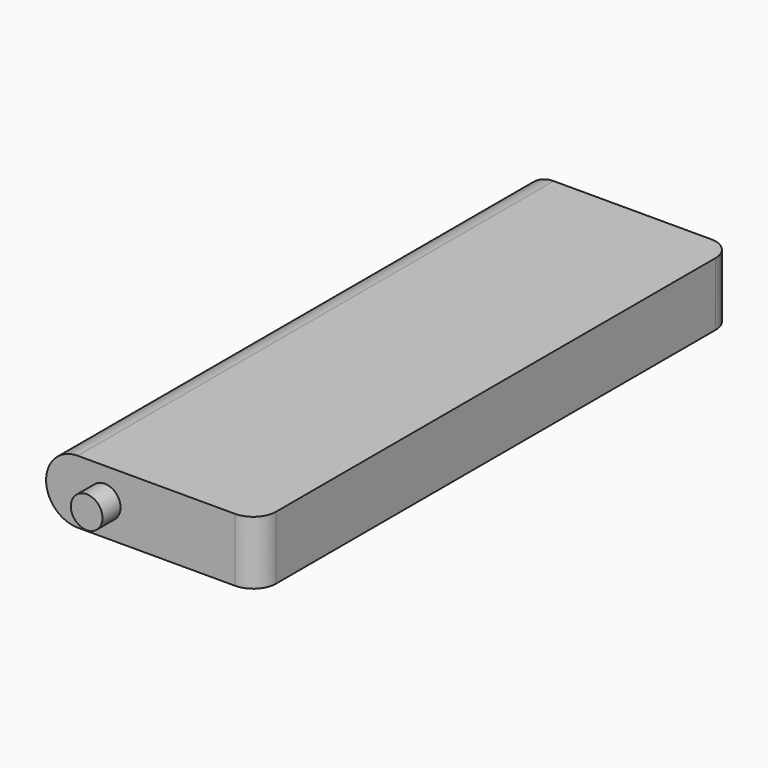
from build123d import *

# Parameters (mm, degrees)
PAD_DEPTH    = 65.75
FILLET_R     = 5
SKETCH001_R  = 3.5
PAD001_DEPTH = 5


with BuildPart() as part:
    # Sketch → Pad (new body, symmetric)
    with BuildSketch(Plane.XZ):
        with BuildLine():
            Line((-16.4, 7), (23.4, 7))
            Line((23.4, 7), (23.4, -7))
            Line((23.4, -7), (-16.4, -7))
            ThreePointArc((-16.4, 7), (-23.4, 0), (-16.4, -7))
        make_face()
    extrude(amount=PAD_DEPTH, both=True)

    # Fillet
    fillet_edges = [part.edges().sort_by_distance(p)[0] for p in [
        (23.4, -65.75, 0),
        (23.4, 65.75, 0),
    ]]
    fillet(fillet_edges, radius=FILLET_R)

    # Sketch001 (on Face6 of Fillet) → Pad001 (join)
    with BuildSketch(Plane.XZ.offset(65.75)):
        with Locations((-10.432093, 0)):
            Circle(SKETCH001_R)
    extrude(amount=PAD001_DEPTH)


solid = part.part
